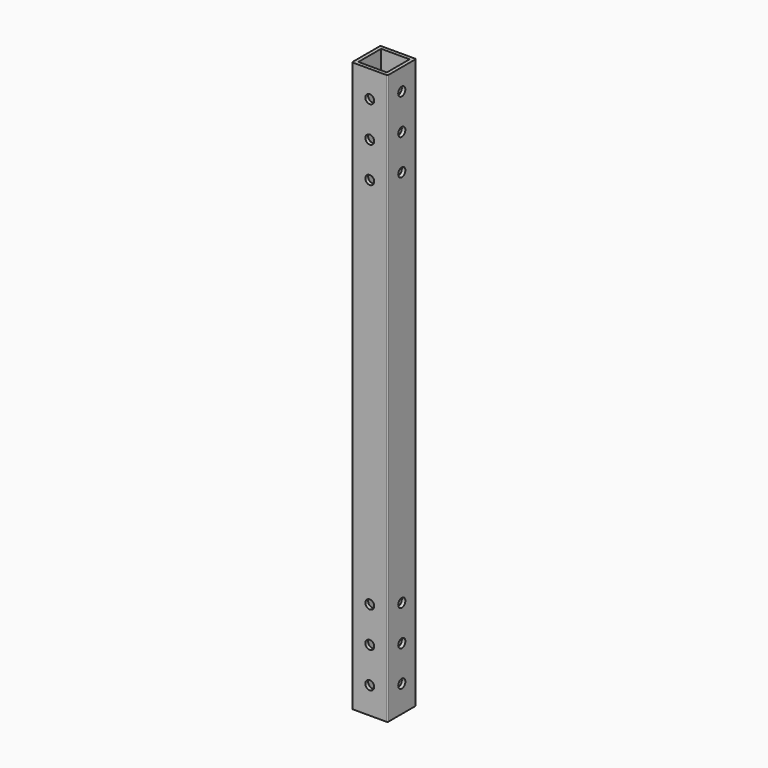
from build123d import *

# Parameters (mm, degrees)
F0_W     = 25.4
F0_H     = 25.4
F0_W_2   = 20.32
F0_H_2   = 20.32
F1_DEPTH = 406.4
F2_R     = 0.762
F5_D     = 6.35
F8_D     = 6.35


with BuildPart() as f1:
    # F0 (on Top) → F1 (new body)
    with BuildSketch(Plane.XY):
        Rectangle(F0_W, F0_H)
        Rectangle(F0_W_2, F0_H_2, mode=Mode.SUBTRACT)
    extrude(amount=F1_DEPTH)

    # F2
    f2_edges = [f1.edges().sort_by_distance(p)[0] for p in [
        (12.7, 12.7, 203.2),
        (-12.7, 12.7, 203.2),
        (-12.7, -12.7, 203.2),
        (12.7, -12.7, 203.2),
    ]]
    fillet(f2_edges, radius=F2_R)

    # F5 (through all)
    with Locations(Plane.YZ.offset(12.7)):
        with Locations((0, 391.16), (0, 365.76), (0, 340.36), (0, 69.85), (0, 44.45), (0, 19.05)):
            Hole(F5_D / 2)

    # F8 (through all)
    with Locations(Plane.XZ.offset(12.7)):
        with Locations((0, 19.05), (0, 44.45), (0, 69.85), (0, 336.55), (0, 361.95), (0, 387.35)):
            Hole(F8_D / 2)


solid = f1.part
